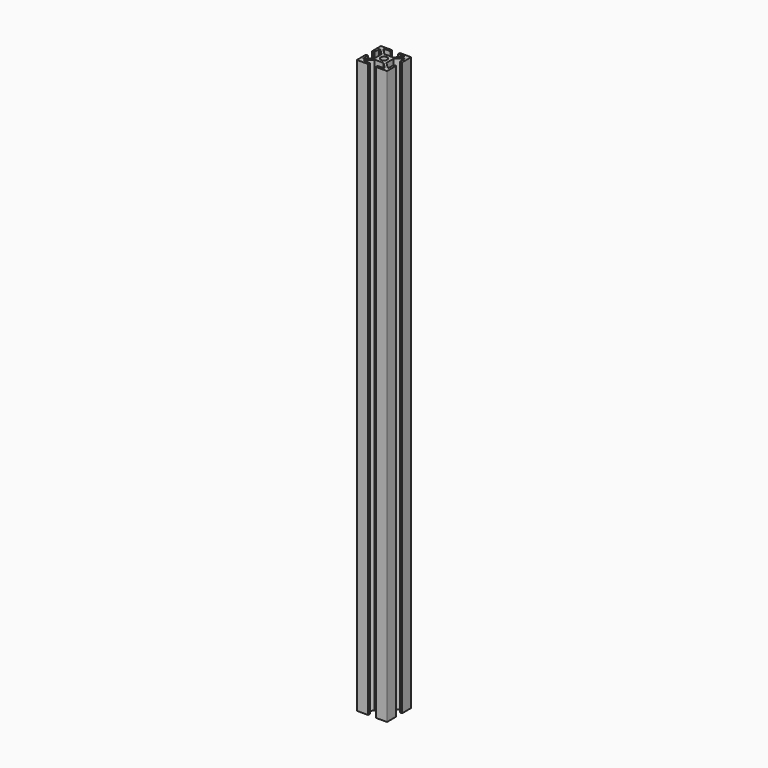
from build123d import *

# Parameters (mm, degrees)
F0_R     = 2.15
F1_DEPTH = 380


with BuildPart() as f1:
    # F0 (on Top) → F1 (new body)
    with BuildSketch(Plane.XY):
        with BuildLine():
            ThreePointArc((10.078947, 8.434901), (10.020369, 8.576322), (9.878947, 8.634901))
            Line((9.878947, 8.634901), (2.778947, 8.634901))
            ThreePointArc((2.778947, 8.634901), (2.637526, 8.576322), (2.578947, 8.434901))
            Line((2.578947, 8.434901), (2.578947, 7.334901))
            ThreePointArc((2.578947, 7.334901), (2.637526, 7.193479), (2.778947, 7.134901))
            Line((2.778947, 7.134901), (6.628947, 7.134901))
            ThreePointArc((6.628947, 7.134901), (6.770369, 7.076322), (6.828947, 6.934901))
            Line((6.828947, 6.934901), (6.828947, 6.528404))
            ThreePointArc((6.828947, 6.528404), (6.813723, 6.451867), (6.770369, 6.386982))
            Line((6.770369, 6.386982), (3.018287, 2.634901))
            Line((3.018287, 2.634901), (-2.860392, 2.634901))
            Line((-2.860392, 2.634901), (-6.612474, 6.386982))
            ThreePointArc((-6.612474, 6.386982), (-6.655829, 6.451867), (-6.671053, 6.528404))
            Line((-6.671053, 6.528404), (-6.671053, 6.934901))
            ThreePointArc((-6.671053, 6.934901), (-6.612474, 7.076322), (-6.471053, 7.134901))
            Line((-6.471053, 7.134901), (-2.621053, 7.134901))
            ThreePointArc((-2.621053, 7.134901), (-2.479631, 7.193479), (-2.421053, 7.334901))
            Line((-2.421053, 7.334901), (-2.421053, 8.434901))
            ThreePointArc((-2.421053, 8.434901), (-2.479631, 8.576322), (-2.621053, 8.634901))
            Line((-2.621053, 8.634901), (-9.721053, 8.634901))
            ThreePointArc((-9.721053, 8.634901), (-9.862474, 8.576322), (-9.921053, 8.434901))
            Line((-9.921053, 8.434901), (-9.921053, 1.334901))
            ThreePointArc((-9.921053, 1.334901), (-9.862474, 1.193479), (-9.721053, 1.134901))
            Line((-9.721053, 1.134901), (-8.621053, 1.134901))
            ThreePointArc((-8.621053, 1.134901), (-8.479631, 1.193479), (-8.421053, 1.334901))
            Line((-8.421053, 1.334901), (-8.421053, 5.184901))
            ThreePointArc((-8.421053, 5.184901), (-8.362474, 5.326322), (-8.221053, 5.384901))
            Line((-8.221053, 5.384901), (-7.814556, 5.384901))
            ThreePointArc((-7.814556, 5.384901), (-7.738019, 5.369677), (-7.673134, 5.326322))
            Line((-7.673134, 5.326322), (-3.921053, 1.574241))
            Line((-3.921053, 1.574241), (-3.921053, -4.304439))
            Line((-3.921053, -4.304439), (-7.673134, -8.056521))
            ThreePointArc((-7.673134, -8.056521), (-7.738019, -8.099875), (-7.814556, -8.115099))
            Line((-7.814556, -8.115099), (-8.221053, -8.115099))
            ThreePointArc((-8.221053, -8.115099), (-8.362474, -8.056521), (-8.421053, -7.915099))
            Line((-8.421053, -7.915099), (-8.421053, -4.065099))
            ThreePointArc((-8.421053, -4.065099), (-8.479631, -3.923678), (-8.621053, -3.865099))
            Line((-8.621053, -3.865099), (-9.721053, -3.865099))
            ThreePointArc((-9.721053, -3.865099), (-9.862474, -3.923678), (-9.921053, -4.065099))
            Line((-9.921053, -4.065099), (-9.921053, -11.165099))
            ThreePointArc((-9.921053, -11.165099), (-9.862474, -11.306521), (-9.721053, -11.365099))
            Line((-9.721053, -11.365099), (-2.621053, -11.365099))
            ThreePointArc((-2.621053, -11.365099), (-2.479631, -11.306521), (-2.421053, -11.165099))
            Line((-2.421053, -11.165099), (-2.421053, -10.065099))
            ThreePointArc((-2.421053, -10.065099), (-2.479631, -9.923678), (-2.621053, -9.865099))
            Line((-2.621053, -9.865099), (-6.471053, -9.865099))
            ThreePointArc((-6.471053, -9.865099), (-6.612474, -9.806521), (-6.671053, -9.665099))
            Line((-6.671053, -9.665099), (-6.671053, -9.258602))
            ThreePointArc((-6.671053, -9.258602), (-6.655829, -9.182065), (-6.612474, -9.117181))
            Line((-6.612474, -9.117181), (-2.860392, -5.365099))
            Line((-2.860392, -5.365099), (3.018287, -5.365099))
            Line((3.018287, -5.365099), (6.770369, -9.117181))
            ThreePointArc((6.770369, -9.117181), (6.813723, -9.182065), (6.828947, -9.258602))
            Line((6.828947, -9.258602), (6.828947, -9.665099))
            ThreePointArc((6.828947, -9.665099), (6.770369, -9.806521), (6.628947, -9.865099))
            Line((6.628947, -9.865099), (2.778947, -9.865099))
            ThreePointArc((2.778947, -9.865099), (2.637526, -9.923678), (2.578947, -10.065099))
            Line((2.578947, -10.065099), (2.578947, -11.165099))
            ThreePointArc((2.578947, -11.165099), (2.637526, -11.306521), (2.778947, -11.365099))
            Line((2.778947, -11.365099), (9.878947, -11.365099))
            ThreePointArc((9.878947, -11.365099), (10.020369, -11.306521), (10.078947, -11.165099))
            Line((10.078947, -11.165099), (10.078947, -4.065099))
            ThreePointArc((10.078947, -4.065099), (10.020369, -3.923678), (9.878947, -3.865099))
            Line((9.878947, -3.865099), (8.778947, -3.865099))
            ThreePointArc((8.778947, -3.865099), (8.637526, -3.923678), (8.578947, -4.065099))
            Line((8.578947, -4.065099), (8.578947, -7.915099))
            ThreePointArc((8.578947, -7.915099), (8.520369, -8.056521), (8.378947, -8.115099))
            Line((8.378947, -8.115099), (7.97245, -8.115099))
            ThreePointArc((7.97245, -8.115099), (7.895914, -8.099875), (7.831029, -8.056521))
            Line((7.831029, -8.056521), (4.078947, -4.304439))
            Line((4.078947, -4.304439), (4.078947, 1.574241))
            Line((4.078947, 1.574241), (7.831029, 5.326322))
            ThreePointArc((7.831029, 5.326322), (7.895914, 5.369677), (7.97245, 5.384901))
            Line((7.97245, 5.384901), (8.378947, 5.384901))
            ThreePointArc((8.378947, 5.384901), (8.520369, 5.326322), (8.578947, 5.184901))
            Line((8.578947, 5.184901), (8.578947, 1.334901))
            ThreePointArc((8.578947, 1.334901), (8.637526, 1.193479), (8.778947, 1.134901))
            Line((8.778947, 1.134901), (9.878947, 1.134901))
            ThreePointArc((9.878947, 1.134901), (10.020369, 1.193479), (10.078947, 1.334901))
            Line((10.078947, 1.334901), (10.078947, 8.434901))
        make_face()
        with Locations((0.078947, -1.365099)):
            Circle(F0_R, mode=Mode.SUBTRACT)
    extrude(amount=F1_DEPTH)


solid = f1.part
